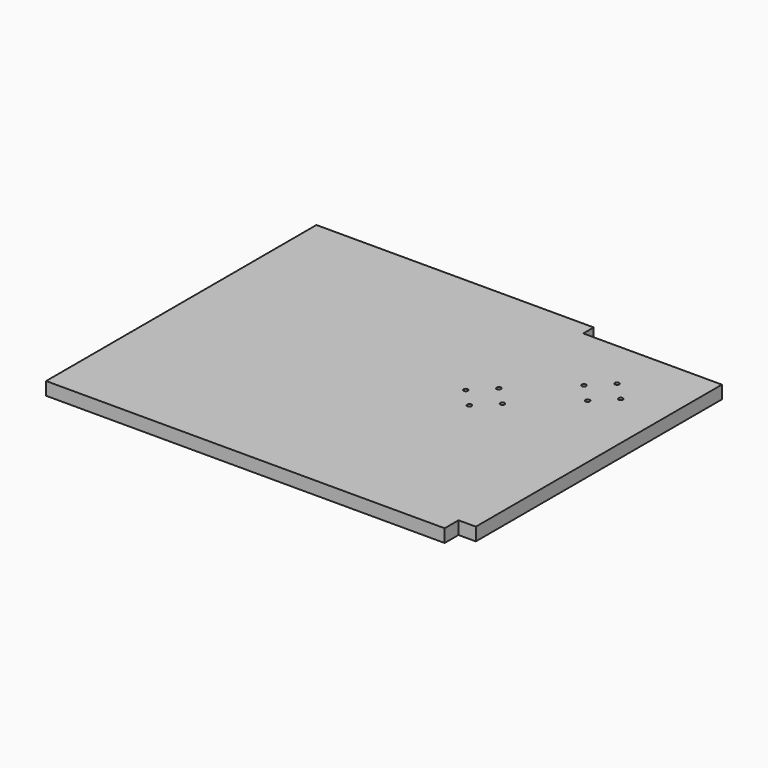
from build123d import *

# Parameters (mm, degrees)
F0_R     = 3.175
F1_DEPTH = 9.525


with BuildPart() as f1:
    # F0 (on Top) → F1 (new body, symmetric)
    with BuildSketch(Plane.XY):
        Polygon((-159.131081, 243.124562), (-565.531081, 243.124562), (-565.531081, -252.175438), (18.668919, -252.175438), (18.668919, -226.775438), (44.068919, -226.775438), (44.068919, 224.074562), (-159.131081, 224.074562), align=None)
        with Locations((-149.606081, 3.412062)):
            Circle(F0_R, mode=Mode.SUBTRACT)
        with Locations((-176.593581, 30.399562)):
            Circle(F0_R, mode=Mode.SUBTRACT)
        with Locations((-149.606081, 57.387062)):
            Circle(F0_R, mode=Mode.SUBTRACT)
        with Locations((-122.618581, 30.399562)):
            Circle(F0_R, mode=Mode.SUBTRACT)
        with Locations((-51.181081, 97.074562)):
            Circle(F0_R, mode=Mode.SUBTRACT)
        with Locations((-78.168581, 124.062062)):
            Circle(F0_R, mode=Mode.SUBTRACT)
        with Locations((-51.181081, 151.049562)):
            Circle(F0_R, mode=Mode.SUBTRACT)
        with Locations((-24.193581, 124.062062)):
            Circle(F0_R, mode=Mode.SUBTRACT)
    extrude(amount=F1_DEPTH, both=True)


solid = f1.part
